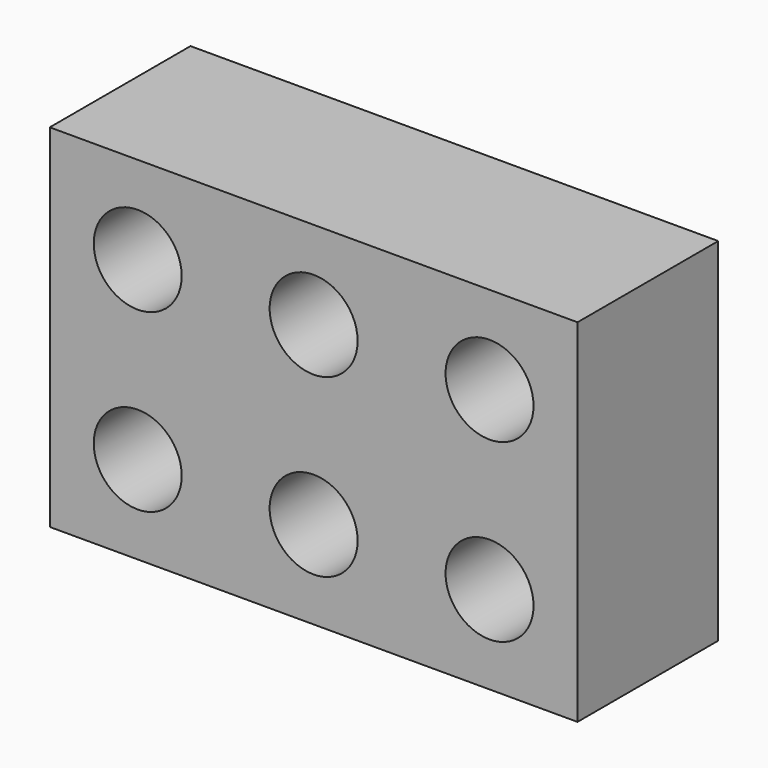
from build123d import *

# Parameters (mm, degrees)
F0_W     = 76.2
F0_H     = 50.8
F0_R     = 6.35
F1_DEPTH = 12.7


with BuildPart() as f1:
    # F0 (on Front) → F1 (new body, symmetric)
    with BuildSketch(Plane.XZ):
        with Locations((23.607079, 22.833344)):
            Rectangle(F0_W, F0_H)
        with Locations((-1.792921, 10.133344)):
            Circle(F0_R, mode=Mode.SUBTRACT)
        with Locations((23.607079, 10.133344)):
            Circle(F0_R, mode=Mode.SUBTRACT)
        with Locations((49.007079, 10.133344)):
            Circle(F0_R, mode=Mode.SUBTRACT)
        with Locations((-1.792921, 35.533344)):
            Circle(F0_R, mode=Mode.SUBTRACT)
        with Locations((23.607079, 35.533344)):
            Circle(F0_R, mode=Mode.SUBTRACT)
        with Locations((49.007079, 35.533344)):
            Circle(F0_R, mode=Mode.SUBTRACT)
    extrude(amount=F1_DEPTH, both=True)


solid = f1.part
